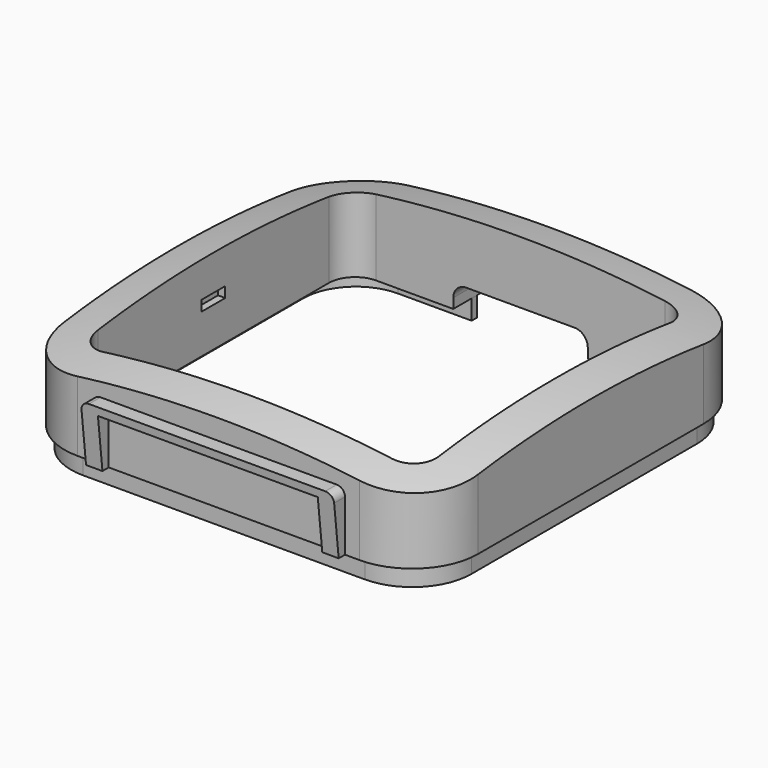
from build123d import *

# Parameters (mm, degrees)
PAD_DEPTH       = 15
SKETCH_W        = 4.5
SKETCH_H        = 1.6
POCKET_DEPTH    = 1.1
POCKET001_DEPTH = 5.499984
PAD001_DEPTH    = 5
POCKET002_DEPTH = 50.750998
PAD002_DEPTH    = 3


with BuildPart() as limit_walls:
    # Sketch002 → Revolution001 (revolve)
    with BuildSketch(Plane.YZ):
        with BuildLine():
            ThreePointArc((60, -10.940263), (30.494628, -2.757429), (0, 0))
            Line((0, 10), (0, 0))
            ThreePointArc((63.529412, -1.583808), (32.28843, 7.08037), (0, 10))
            Line((63.529412, -1.583808), (60, -10.940263))
        make_face()
    revolve(axis=Axis((0, 0, 0), (0, 0, 1)))


with BuildPart() as cut:
    # Sketch001 → Pad (new body)
    with BuildSketch(Plane.XY.offset(-15)):
        with BuildLine():
            Line((-21.499971, 31.499984), (21.499999, 31.499984))
            ThreePointArc((31.499998, 21.499986), (28.571066, 28.571052), (21.499999, 31.499984))
            Line((31.499998, 21.499986), (31.499998, -21.499984))
            ThreePointArc((21.499971, -31.499984), (28.571056, -28.571062), (31.499998, -21.499984))
            Line((-21.499999, -31.499984), (21.499971, -31.499984))
            ThreePointArc((-31.500002, -21.499984), (-28.571069, -28.571053), (-21.499999, -31.499984))
            Line((-31.500002, 21.499986), (-31.500002, -21.499984))
            ThreePointArc((-21.499971, 31.499984), (-28.571058, 28.571064), (-31.500002, 21.499986))
        make_face()
        with BuildLine():
            Line((-22, 26), (22, 26))
            ThreePointArc((26, 22), (24.828427, 24.828427), (22, 26))
            Line((26, 22), (26, -22))
            ThreePointArc((22, -26), (24.828427, -24.828427), (26, -22))
            Line((-22, -26), (22, -26))
            ThreePointArc((-26, -21.99998), (-24.828434, -24.82842), (-22, -26))
            Line((-26, 22.000021), (-26, -21.99998))
            ThreePointArc((-22, 26), (-24.82842, 24.828435), (-26, 22.000021))
        make_face(mode=Mode.SUBTRACT)
    extrude(amount=PAD_DEPTH)

    # Sketch (on Face9 of Pad) → Pocket (cut)
    with BuildSketch(Plane.YZ.offset(-26)):
        with Locations((0, -8.2)):
            Rectangle(SKETCH_W, SKETCH_H)
    pocket = extrude(amount=-POCKET_DEPTH, mode=Mode.SUBTRACT)

    # Mirrored: Pocket across YZ
    add(pocket.mirror(Plane.YZ), mode=Mode.SUBTRACT)

    # Sketch003 (on Face2 of Mirrored) → Pocket001 (cut)
    with BuildSketch(Plane(origin=(0, 31.499984, 0), x_dir=(-1, 0, 0), z_dir=(0, 1, 0))):
        with BuildLine():
            Line((-10.25, -15), (-10.25, -13.500001))
            ThreePointArc((-8.249997, -11.5), (-9.664212, -12.085786), (-10.25, -13.500001))
            Line((-8.249997, -11.5), (8.249997, -11.5))
            ThreePointArc((10.249996, -13.500001), (9.66421, -12.085787), (8.249997, -11.5))
            Line((10.25, -15), (10.249996, -13.500001))
            Line((-10.25, -15), (10.25, -15))
        make_face()
    extrude(amount=-POCKET001_DEPTH, mode=Mode.SUBTRACT)

    # Sketch004 (on Face13 of Pocket001) → Pad001 (join)
    with BuildSketch(Plane.XZ.offset(31.499984)):
        with BuildLine():
            Line((-19.25, -15), (-19.25, -7.25))
            ThreePointArc((-18, -6), (-18.883883, -6.366117), (-19.25, -7.25))
            Line((-18, -6), (18, -6))
            ThreePointArc((19.25, -7.25), (18.883883, -6.366117), (18, -6))
            Line((19.25, -15), (19.25, -7.25))
            Line((16.75, -15), (19.25, -15))
            Line((16.75, -15), (16.75, -7.25))
            Line((-16.75, -7.25), (16.75, -7.25))
            Line((-16.75, -15), (-16.75, -7.25))
            Line((-19.25, -15), (-16.75, -15))
        make_face()
    extrude(amount=PAD001_DEPTH)

    # Sketch005 (on Face27 of Pad001) → Pocket002 (cut, through all)
    with BuildSketch(Plane(origin=(-19.25, 0, 0), x_dir=(0, -1, 0), z_dir=(-1, 0, 0))):
        Polygon((33.699984, -6), (32.699984, -15), (36.499984, -15), (36.499984, -6), align=None)
    extrude(amount=-POCKET002_DEPTH, mode=Mode.SUBTRACT)

    # Sketch006 (on Face4 of Pocket002) → Pad002 (join)
    with BuildSketch(Plane(origin=(0, 0, -15), x_dir=(1, 0, 0), z_dir=(0, 0, -1))):
        with BuildLine():
            Line((-21.499999, 30.499984), (21.499999, 30.499984))
            ThreePointArc((30.499997, 21.499984), (27.863964, 27.86395), (21.499999, 30.499984))
            Line((30.499997, 21.499984), (30.499997, -21.499984))
            ThreePointArc((21.500015, -30.499984), (27.86397, -27.863944), (30.499997, -21.499984))
            Line((21.500015, -30.499984), (10.25, -30.499984))
            Line((10.25, -29.499984), (10.25, -30.499984))
            Line((21.500015, -29.499984), (10.25, -29.499984))
            ThreePointArc((21.500015, -29.499984), (27.156863, -27.156837), (29.499997, -21.499984))
            Line((29.499997, 21.499984), (29.499997, -21.499984))
            ThreePointArc((29.499997, 21.499984), (27.156857, 27.156843), (21.499999, 29.499984))
            Line((-21.499999, 29.499984), (21.499999, 29.499984))
            ThreePointArc((-21.499999, 29.499984), (-27.156852, 27.156838), (-29.499997, 21.499984))
            Line((-29.499997, 21.499984), (-29.499997, -21.499984))
            ThreePointArc((-29.499997, -21.499984), (-27.156863, -27.156837), (-21.500016, -29.499984))
            Line((-21.500016, -29.499984), (-10.25, -29.499984))
            Line((-10.25, -30.499984), (-10.25, -29.499984))
            Line((-21.500015, -30.499984), (-10.25, -30.499984))
            ThreePointArc((-30.499997, -21.499984), (-27.86397, -27.863944), (-21.500015, -30.499984))
            Line((-30.499997, 21.499984), (-30.499997, -21.499984))
            ThreePointArc((-21.499999, 30.499984), (-27.863964, 27.86395), (-30.499997, 21.499984))
        make_face()
    extrude(amount=PAD002_DEPTH)

    # Cut: cut limit_walls
    add(limit_walls.part, mode=Mode.SUBTRACT)


solid = cut.part
